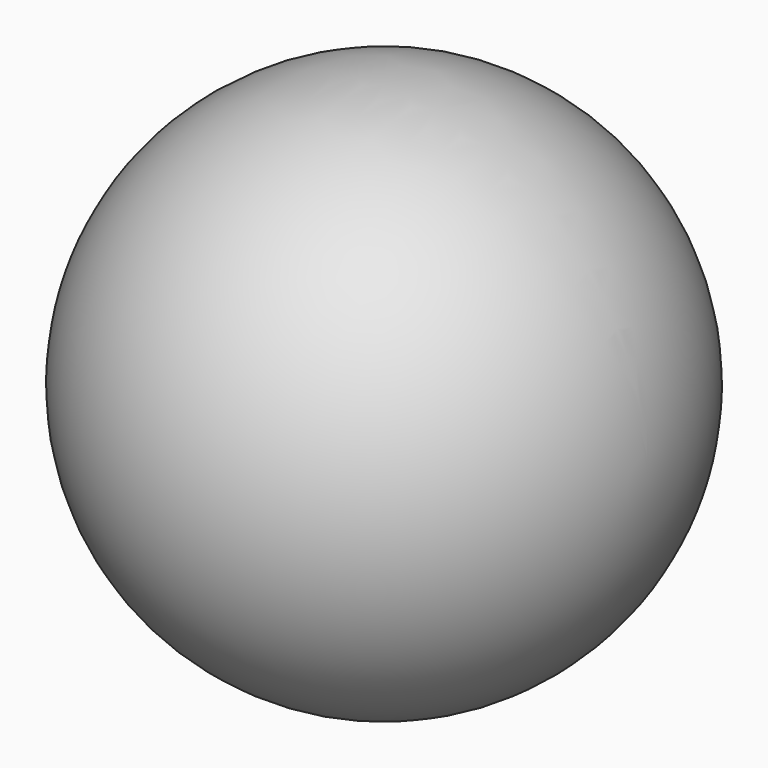
from build123d import *


with BuildPart() as f1:
    # F0 (on Front) → F1 (revolve)
    with BuildSketch(Plane.XZ):
        with BuildLine():
            ThreePointArc((50.7728345692, 0), (0, 50.7728345692), (-50.7728345692, 0))
            Line((-50.7728345692, 0), (-20.7035394, 0))
            ThreePointArc((-20.7035394, 0), (0, 20.7035394), (20.7035394, 0))
            Line((20.7035394, 0), (50.7728345692, 0))
        make_face()
        with BuildLine():
            ThreePointArc((20.7035394, 0), (0, 20.7035394), (-20.7035394, 0))
            Line((-20.7035394, 0), (20.7035394, 0))
        make_face()
        with BuildLine():
            Line((20.7035394, 0), (-20.7035394, 0))
            ThreePointArc((-20.7035394, 0), (0, -20.7035394), (20.7035394, 0))
        make_face()
        with BuildLine():
            ThreePointArc((50.7728345692, 0), (0, 50.7728345692), (-50.7728345692, 0))
            Line((-50.7728345692, 0), (-20.7035394, 0))
            ThreePointArc((-20.7035394, 0), (0, 20.7035394), (20.7035394, 0))
            Line((20.7035394, 0), (50.7728345692, 0))
        make_face()
    revolve(axis=Axis((0, 0, 0), (1, 0, 0)))


solid = f1.part
